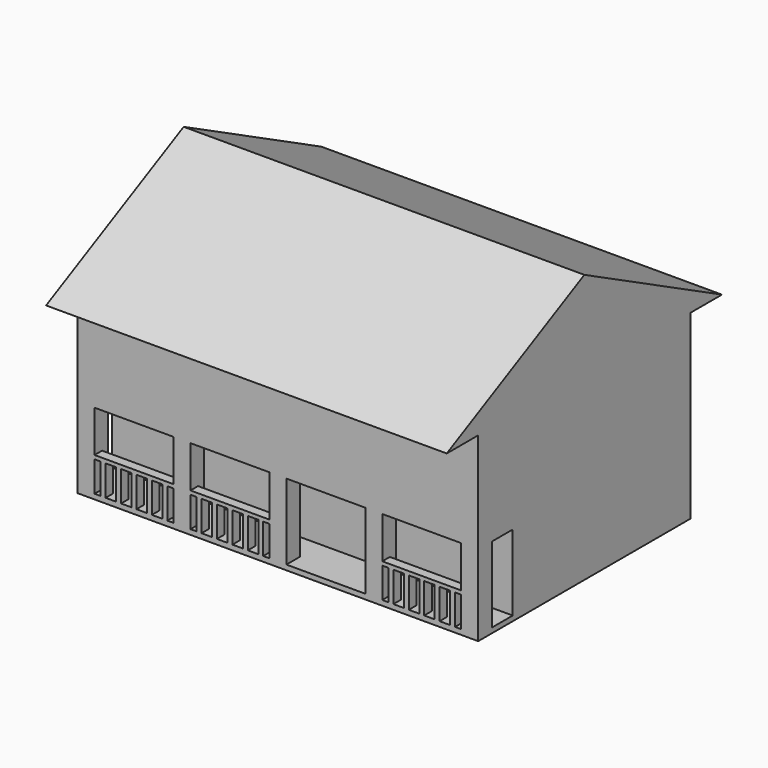
from build123d import *

# Parameters (mm, degrees)
F1_DEPTH  = 132.11009
F2_W      = 132.11009
F2_H      = 1.6692737117
F3_DEPTH  = 14.2200058326
F4_W      = 5.6164497176
F4_H      = 5.6164497176
F5_DEPTH  = 24.97072611
F4_W_2    = 1.6288390616
F4_H_2    = 3.1137447804
F6_DEPTH  = 10
F7_W      = 3.1137447804
F7_H      = 1.2358725164
F8_DEPTH  = 57.6303704236
F9_W      = 3.1137447804
F9_H      = 1.2358725164
F10_DEPTH = 26.006960353


with BuildPart() as f1:
    # F0 (on Right) → F1 (new body)
    with BuildSketch(Plane.YZ):
        Polygon((-41.4899997413, 44.3699993193), (-28.5300053656, 44.3699993193), (58.9500032365, 44.3699993193), (71.9099976122, 44.3699993193), (15.2099989355, 73.1699988246), align=None)
        Polygon((-14.309999533, 11.2499995157), (-14.309999533, -15.3900003061), (58.9500032365, -15.3900003061), (58.9500032365, 44.3699993193), (-28.5300053656, 44.3699993193), (-28.5300053656, 11.2499995157), align=None)
    extrude(amount=F1_DEPTH)

    # F2 (on face) → F3 (join, through all)
    with BuildSketch(Plane.XZ.offset(14.309999533)):
        with Locations((66.055045, -14.5553634502)):
            Rectangle(F2_W, F2_H)
    extrude(amount=F3_DEPTH)

    # F4 (on face) → F5 (join, through all)
    with BuildSketch(Plane.XY.offset(-13.7207265943)):
        with Locations((2.8082248588, -25.7217805068)):
            Rectangle(F4_W, F4_H)
        with Locations((34.4316349294, -25.7217805068)):
            Rectangle(F4_W, F4_H)
        with Locations((66.055045, -25.7217805068)):
            Rectangle(F4_W, F4_H)
        with Locations((97.6784550706, -25.7217805068)):
            Rectangle(F4_W, F4_H)
        with Locations((129.3018651412, -25.7217805068)):
            Rectangle(F4_W, F4_H)
    extrude(amount=F5_DEPTH)

    # F4 (on face) → F6 (join)
    with BuildSketch(Plane.XY.offset(-13.7207265943)):
        with Locations((2.8082248588, -25.7217805068)):
            Rectangle(F4_W, F4_H)
        with Locations((34.4316349294, -25.7217805068)):
            Rectangle(F4_W, F4_H)
        with Locations((66.055045, -25.7217805068)):
            Rectangle(F4_W, F4_H)
        with Locations((97.6784550706, -25.7217805068)):
            Rectangle(F4_W, F4_H)
        with Locations((129.3018651412, -25.7217805068)):
            Rectangle(F4_W, F4_H)
        with Locations((8.4482542712, -26.9731329754)):
            Rectangle(F4_W_2, F4_H_2)
        with Locations((13.5340920827, -26.9731329754)):
            Rectangle(F4_W_2, F4_H_2)
        with Locations((18.6199298941, -26.9731329754)):
            Rectangle(F4_W_2, F4_H_2)
        with Locations((23.7057677055, -26.9731329754)):
            Rectangle(F4_W_2, F4_H_2)
        with Locations((28.791605517, -26.9731329754)):
            Rectangle(F4_W_2, F4_H_2)
        with Locations((45.1575021533, -26.9731329754)):
            Rectangle(F4_W_2, F4_H_2)
        with Locations((50.2433399647, -26.9731329754)):
            Rectangle(F4_W_2, F4_H_2)
        with Locations((55.3291777761, -26.9731329754)):
            Rectangle(F4_W_2, F4_H_2)
        with Locations((60.4150155876, -26.9731329754)):
            Rectangle(F4_W_2, F4_H_2)
        with Locations((40.0716643418, -26.9731329754)):
            Rectangle(F4_W_2, F4_H_2)
        with Locations((108.4043222945, -26.9731329754)):
            Rectangle(F4_W_2, F4_H_2)
        with Locations((113.4901601059, -26.9731329754)):
            Rectangle(F4_W_2, F4_H_2)
        with Locations((118.5759979173, -26.9731329754)):
            Rectangle(F4_W_2, F4_H_2)
        with Locations((123.6618357288, -26.9731329754)):
            Rectangle(F4_W_2, F4_H_2)
        with Locations((103.318484483, -26.9731329754)):
            Rectangle(F4_W_2, F4_H_2)
    extrude(amount=F6_DEPTH)

    # F7 (on face) → F8 (join, through all)
    with BuildSketch(Plane.YZ.offset(5.6164497176)):
        with Locations((-26.9731329754, -3.1027903361)):
            Rectangle(F7_W, F7_H)
    extrude(amount=F8_DEPTH)

    # F9 (on face) → F10 (join, through all)
    with BuildSketch(Plane.YZ.offset(100.4866799294)):
        with Locations((-26.9731329754, -3.1027903361)):
            Rectangle(F9_W, F9_H)
    extrude(amount=F10_DEPTH)


solid = f1.part
